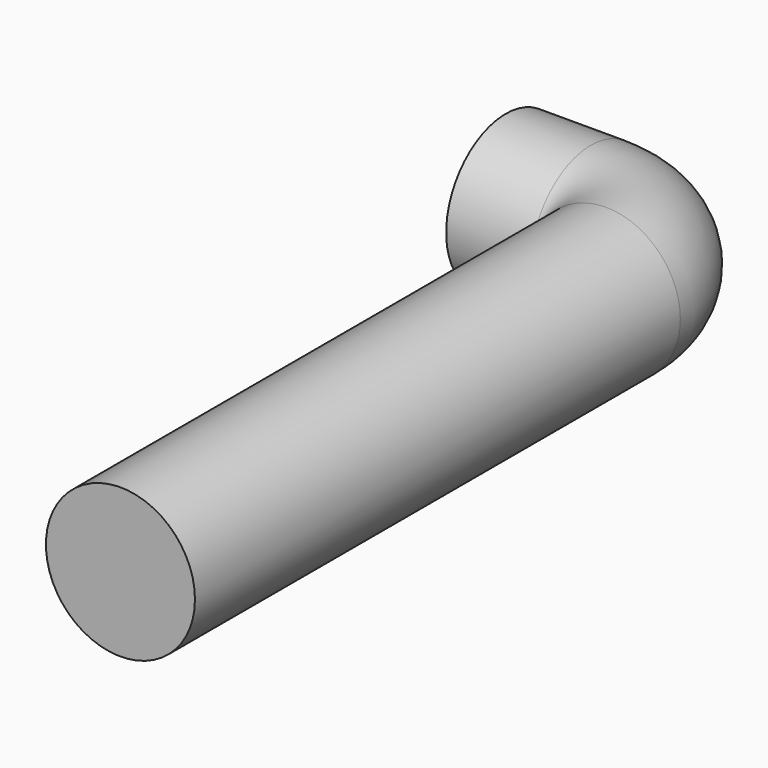
from build123d import *

# Parameters (mm, degrees)
F1_R = 0.35


with BuildPart() as f2:
    # F2: sweep along a path in F0
    with BuildLine(Plane.XY) as f2_path:
        Line((0, 0), (0.4, 0))
        ThreePointArc((0.4, 0), (0.6474873734, -0.1025126266), (0.75, -0.35))
        Line((0.75, -0.35), (0.75, -3.2))
    # F1 (on Right) → F2 (sweep)
    with BuildSketch(Plane.YZ):
        Circle(F1_R)
    sweep(path=f2_path.line)


solid = f2.part
